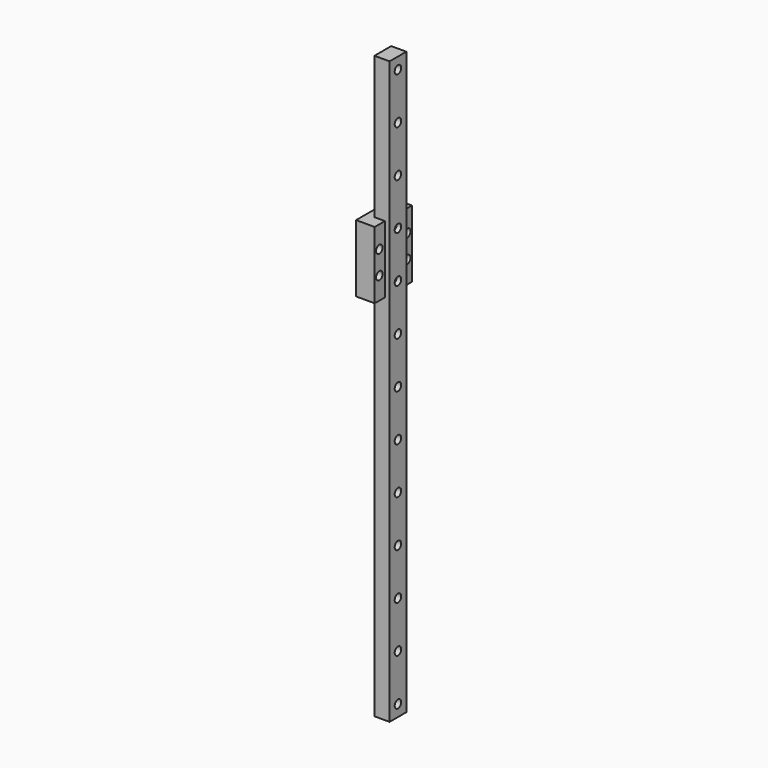
from build123d import *

# Parameters (mm, degrees)
SKETCH046_W             = 9
SKETCH046_H             = 250
PAD023_DEPTH            = 6.5
SKETCH043_R             = 1.75
POCKET019_DEPTH         = 6.5
LINEARPATTERN010_COUNT  = 13
LINEARPATTERN010_PITCH  = 20
SKETCH045_R             = 3
POCKET020_DEPTH         = 3.5
LINEARPATTERN011_COUNT  = 13
LINEARPATTERN011_PITCH  = 20
SKETCH044_W             = 20
SKETCH044_H             = 28.9
SKETCH044_R             = 1.75
PAD024_DEPTH            = 8
BODY010_ROLL_ANGLE      = 90
BODY010_PLACEMENT_ANGLE = -90


with BuildPart() as part:
    # Sketch046 → Pad023 (new body)
    with BuildSketch(Plane.XY):
        with Locations((0, 125)):
            Rectangle(SKETCH046_W, SKETCH046_H)
    extrude(amount=-PAD023_DEPTH)

    # Sketch043 → Pocket019 (cut)
    with BuildSketch(Plane.XY):
        with Locations((0, 5)):
            Circle(SKETCH043_R)
    pocket019 = extrude(amount=-POCKET019_DEPTH, mode=Mode.SUBTRACT)

    # LinearPattern010: Pocket019 ×13
    with Locations(*[(0, i * LINEARPATTERN010_PITCH, 0) for i in range(1, LINEARPATTERN010_COUNT)]):
        add(pocket019, mode=Mode.SUBTRACT)

    # Sketch045 → Pocket020 (cut)
    with BuildSketch(Plane.XY):
        with Locations((0, 5)):
            Circle(SKETCH045_R)
    pocket020 = extrude(amount=-POCKET020_DEPTH, mode=Mode.SUBTRACT)

    # LinearPattern011: Pocket020 ×13
    with Locations(*[(0, i * LINEARPATTERN011_PITCH, 0) for i in range(1, LINEARPATTERN011_COUNT)]):
        add(pocket020, mode=Mode.SUBTRACT)

    # Sketch044 → Pad024 (join)
    with BuildSketch(Plane.XY.offset(-4.5)):
        with Locations((0, 174.45)):
            Rectangle(SKETCH044_W, SKETCH044_H)
        with Locations((-7.5, 179.45)):
            Circle(SKETCH044_R, mode=Mode.SUBTRACT)
        with Locations((7.5, 179.45)):
            Circle(SKETCH044_R, mode=Mode.SUBTRACT)
        with Locations((7.5, 169.45)):
            Circle(SKETCH044_R, mode=Mode.SUBTRACT)
        with Locations((-7.5, 169.45)):
            Circle(SKETCH044_R, mode=Mode.SUBTRACT)
    extrude(amount=PAD024_DEPTH)


with BuildPart() as part_1:
    # Body010 roll: moved
    add(part.part.rotate(Axis((0, 0, 0), (1, 0, 0)), BODY010_ROLL_ANGLE))


with BuildPart() as part_2:
    # Body010 placement: moved
    add(part_1.part.rotate(Axis((0, 0, 0), (0, 0, 1)), BODY010_PLACEMENT_ANGLE))


solid = part_2.part
